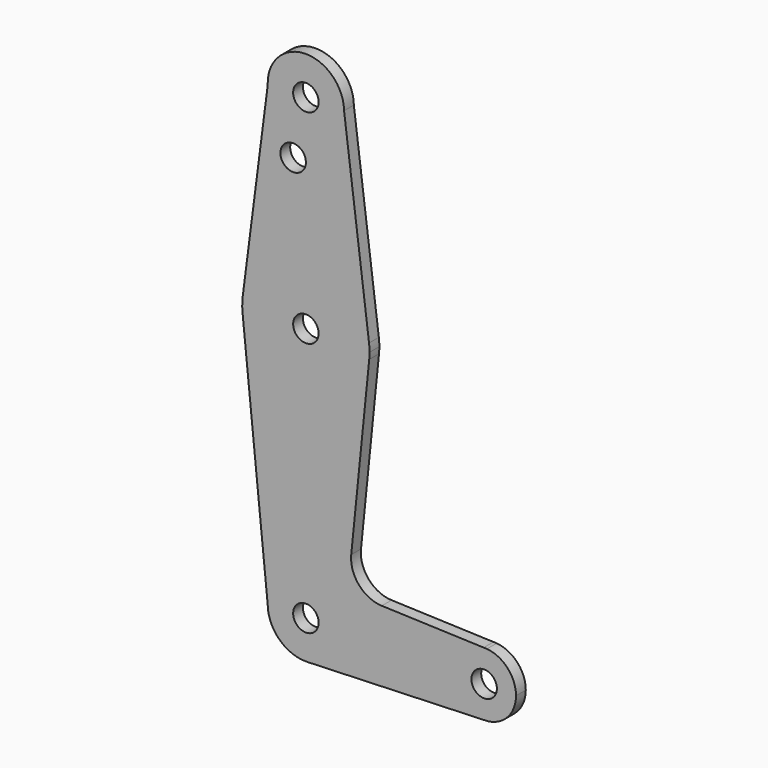
from build123d import *

# Parameters (mm, degrees)
F0_R     = 3.175
F1_DEPTH = 3.048


with BuildPart() as f1:
    # F0 (on Front) → F1 (new body)
    with BuildSketch(Plane.XZ):
        with BuildLine():
            ThreePointArc((-70.393814, 80.256737), (-60.66248, 71.166364), (-51.353623, 80.688912))
            ThreePointArc((-51.353623, 80.688912), (-51.353929, 80.76517), (-51.354844, 80.841423))
            ThreePointArc((-51.354844, 80.841423), (-61.170998, 90.209423), (-70.393814, 80.256737))
        make_face()
        with Locations((-60.878623, 80.688912)):
            Circle(F0_R, mode=Mode.SUBTRACT)
        with BuildLine():
            ThreePointArc((-51.354844, 80.841423), (-51.353929, 80.76517), (-51.353623, 80.688912))
            ThreePointArc((-51.353623, 80.688912), (-60.66248, 71.166364), (-70.393814, 80.256737))
            Line((-70.393814, 80.256737), (-76.623413, 31.918004))
            ThreePointArc((-76.623413, 31.918004), (-60.865228, 45.763906), (-45.130431, 31.89143))
            Line((-45.130431, 31.89143), (-51.354844, 80.841423))
        make_face()
        with Locations((-64.053623, 66.414112)):
            Circle(F0_R, mode=Mode.SUBTRACT)
        with BuildLine():
            ThreePointArc((-45.003623, 29.888912), (-45.035357, 30.892176), (-45.130431, 31.89143))
            ThreePointArc((-45.130431, 31.89143), (-60.865228, 45.763906), (-76.623413, 31.918004))
            ThreePointArc((-76.623413, 31.918004), (-76.752136, 30.106182), (-76.673051, 28.291516))
            ThreePointArc((-76.673051, 28.291516), (-60.879741, 14.013912), (-45.08442, 28.289292))
            ThreePointArc((-45.08442, 28.289292), (-45.023835, 29.088082), (-45.003623, 29.888912))
        make_face()
        with Locations((-60.878623, 29.888912)):
            Circle(F0_R, mode=Mode.SUBTRACT)
        with BuildLine():
            ThreePointArc((-45.08442, 28.289292), (-60.879741, 14.013912), (-76.673051, 28.291516))
            Line((-76.673051, 28.291516), (-70.403185, -33.702487))
            ThreePointArc((-70.403185, -33.702487), (-60.924323, -24.086198), (-51.353623, -33.611088))
            ThreePointArc((-51.353623, -33.611088), (-54.023501, -40.224175), (-60.536389, -43.129938))
            Line((-60.536389, -43.129938), (-16.533658, -41.547893))
            ThreePointArc((-16.533658, -41.547893), (-24.36612, -33.617942), (-16.547364, -25.674476))
            Line((-16.547364, -25.674476), (-41.94752, -24.76086))
            ThreePointArc((-41.94752, -24.76086), (-47.65469, -22.039808), (-49.571481, -16.014709))
            Line((-49.571481, -16.014709), (-45.08442, 28.289292))
        make_face()
        with BuildLine():
            ThreePointArc((-51.353623, -33.611088), (-60.924323, -24.086198), (-70.403185, -33.702487))
            ThreePointArc((-70.403185, -33.702487), (-67.458744, -40.497861), (-60.536389, -43.129938))
            ThreePointArc((-60.536389, -43.129938), (-54.023501, -40.224175), (-51.353623, -33.611088))
        make_face()
        with Locations((-60.878623, -33.611088)):
            Circle(F0_R, mode=Mode.SUBTRACT)
        with BuildLine():
            ThreePointArc((-16.547364, -25.674476), (-24.36612, -33.617942), (-16.533658, -41.547893))
            ThreePointArc((-16.533658, -41.547893), (-10.853222, -39.260762), (-8.491123, -33.611088))
            ThreePointArc((-8.491123, -33.611088), (-10.577556, -28.247422), (-15.739984, -25.703517))
            Line((-15.739984, -25.703517), (-16.547364, -25.674476))
        make_face()
        with Locations((-16.428623, -33.611088)):
            Circle(F0_R, mode=Mode.SUBTRACT)
        with BuildLine():
            ThreePointArc((-15.739984, -25.703517), (-16.143304, -25.678718), (-16.547364, -25.674476))
            Line((-16.547364, -25.674476), (-15.739984, -25.703517))
        make_face()
    extrude(amount=F1_DEPTH)


solid = f1.part
